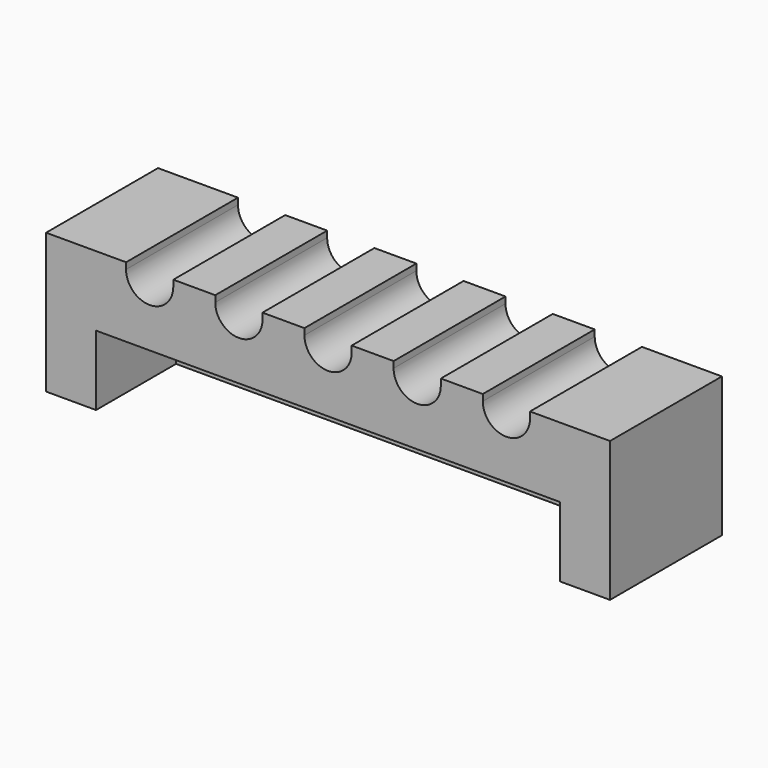
from build123d import *

# Parameters (mm, degrees)
F0_W     = 71.67
F0_H     = 17.78
F1_DEPTH = 8.89
F2_W     = 6
F2_H     = 0.81
F3_DEPTH = 17.781
F4_W     = 58.97
F4_H     = 8.89
F5_DEPTH = 12.7


with BuildPart() as f1:
    # F0 (on Front) → F1 (new body, symmetric)
    with BuildSketch(Plane.XZ):
        Rectangle(F0_W, F0_H)
    extrude(amount=F1_DEPTH, both=True)

    # F2 (on face) → F3 (cut, through all)
    with BuildSketch(Plane.XZ.offset(8.89)):
        with Locations((-22.668, 8.485)):
            Rectangle(F2_W, F2_H)
        with BuildLine():
            Line((-19.668, 8.08), (-25.668, 8.08))
            ThreePointArc((-25.668, 8.08), (-22.668, 5.08), (-19.668, 8.08))
        make_face()
        with Locations((-11.334, 8.485)):
            Rectangle(F2_W, F2_H)
        with BuildLine():
            ThreePointArc((-14.334, 8.08), (-11.334, 5.08), (-8.334, 8.08))
            Line((-8.334, 8.08), (-14.334, 8.08))
        make_face()
        with Locations((0, 8.485)):
            Rectangle(F2_W, F2_H)
        with BuildLine():
            ThreePointArc((-3, 8.08), (0, 5.08), (3, 8.08))
            Line((3, 8.08), (-3, 8.08))
        make_face()
        with Locations((11.334, 8.485)):
            Rectangle(F2_W, F2_H)
        with BuildLine():
            ThreePointArc((8.334, 8.08), (11.334, 5.08), (14.334, 8.08))
            Line((14.334, 8.08), (8.334, 8.08))
        make_face()
        with BuildLine():
            Line((25.668, 8.08), (25.668, 8.89))
            Line((25.668, 8.89), (19.668, 8.89))
            Line((19.668, 8.89), (19.668, 8.08))
            ThreePointArc((19.668, 8.08), (22.668, 5.08), (25.668, 8.08))
        make_face()
    extrude(amount=-F3_DEPTH, mode=Mode.SUBTRACT)

    # F4 (on face) → F5 (cut)
    with BuildSketch(Plane.XZ.offset(8.89)):
        with Locations((0, -4.445)):
            Rectangle(F4_W, F4_H)
    extrude(amount=-F5_DEPTH, mode=Mode.SUBTRACT)


solid = f1.part
